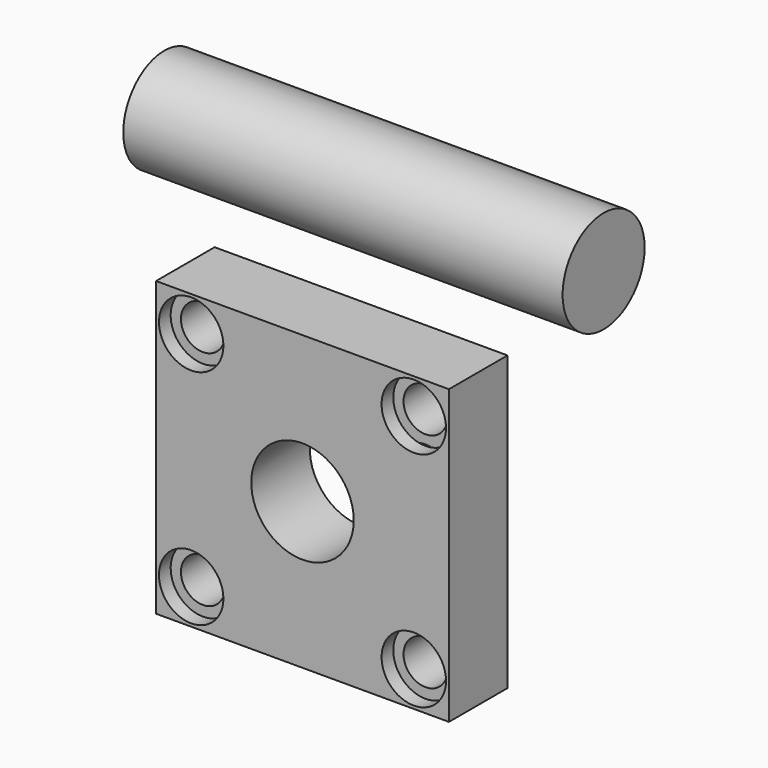
from build123d import *

# Parameters (mm, degrees)
F0_W     = 100
F0_H     = 100
F0_R     = 7.5
F0_R_2   = 17.5
F1_DEPTH = 25
F2_R     = 17.5
F3_DEPTH = 150
F4_R     = 11
F4_R_2   = 7.5
F5_DEPTH = 5
F6_R     = 7.5
F7_DEPTH = 20


with BuildPart() as f1:
    # F0 (on Front) → F1 (new body)
    with BuildSketch(Plane.XZ):
        Rectangle(F0_W, F0_H)
        with Locations((-38, -38)):
            Circle(F0_R, mode=Mode.SUBTRACT)
        with Locations((38, -38)):
            Circle(F0_R, mode=Mode.SUBTRACT)
        with Locations((-38, 38)):
            Circle(F0_R, mode=Mode.SUBTRACT)
        Circle(F0_R_2, mode=Mode.SUBTRACT)
        with Locations((38, 38)):
            Circle(F0_R, mode=Mode.SUBTRACT)
    extrude(amount=F1_DEPTH)

    # F4 (on face) → F5 (cut)
    with BuildSketch(Plane.XZ.offset(25)):
        with Locations((38, 38)):
            Circle(F4_R)
        with Locations((38, 38)):
            Circle(F4_R_2, mode=Mode.SUBTRACT)
        with Locations((-38, 38)):
            Circle(F4_R)
        with Locations((-38, 38)):
            Circle(F4_R_2, mode=Mode.SUBTRACT)
        with Locations((-38, -38)):
            Circle(F4_R)
        with Locations((-38, -38)):
            Circle(F4_R_2, mode=Mode.SUBTRACT)
        with Locations((38, -38)):
            Circle(F4_R)
        with Locations((38, -38)):
            Circle(F4_R_2, mode=Mode.SUBTRACT)
    extrude(amount=-F5_DEPTH, mode=Mode.SUBTRACT)

    # F6 (on face) → F7 (cut)
    with BuildSketch(Plane(origin=(0, 0, 0), x_dir=(-1, 0, 0), z_dir=(0, 1, 0))):
        with Locations((-38, 20)):
            Circle(F6_R)
        with Locations((38, -20)):
            Circle(F6_R)
    extrude(amount=-F7_DEPTH, mode=Mode.SUBTRACT)


with BuildPart() as f3:
    # F2 (on Right) → F3 (new body)
    with BuildSketch(Plane.YZ):
        with Locations((103.52087, 16.973691)):
            Circle(F2_R)
    extrude(amount=-F3_DEPTH)


solid = Compound([f1.part, f3.part])
